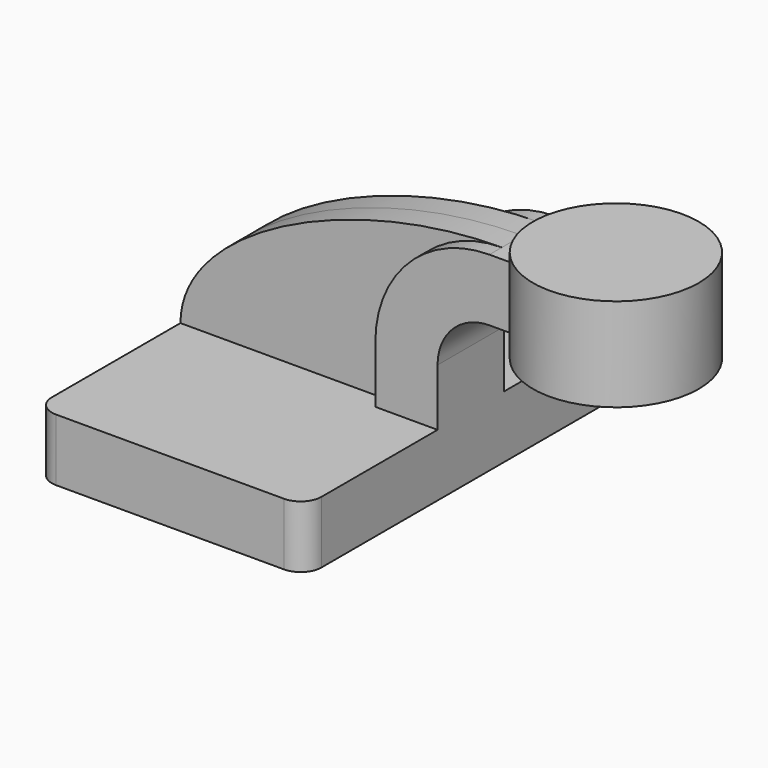
from build123d import *

# Parameters (mm, degrees)
F1_DEPTH = 63.5
F0_W     = 25.4
F0_H     = 19.05
F2_DEPTH = 12.7
F3_DEPTH = 7.9375
F5_R     = 6.35


with BuildPart() as f1:
    # F0 (on Front) → F1 (new body, symmetric)
    with BuildSketch(Plane.XZ):
        Polygon((41.275, -9.525), (41.275, 9.525), (22.225, 9.525), (-41.275, 9.525), (-41.275, -9.525), align=None)
    extrude(amount=F1_DEPTH, both=True)



with BuildPart() as f2:
    # F0 (on Front) → F2 (new body, symmetric)
    with BuildSketch(Plane.XZ):
        with Locations((73.025, 52.4002)):
            Rectangle(F0_W, F0_H)
        with BuildLine():
            Line((22.225, 9.525), (41.275, 9.525))
            Line((41.275, 9.525), (41.275, 27.0002))
            ThreePointArc((41.275, 27.0002), (45.9246798487, 38.2255201513), (57.15, 42.8752))
            Line((57.15, 42.8752), (60.325, 42.8752))
            Line((60.325, 42.8752), (60.325, 61.9252))
            Line((60.325, 61.9252), (57.15, 61.9252))
            ThreePointArc((57.15, 61.9252), (32.4542956671, 51.6959043329), (22.225, 27.0002))
            Line((22.225, 27.0002), (22.225, 9.525))
        make_face()
    extrude(amount=F2_DEPTH, both=True)


with BuildPart() as f1_1:
    add(f1.part)

    add(f2.part)  # F3 merges F2
    # F0 (on Front) → F3 (join, symmetric)
    with BuildSketch(Plane.XZ):
        with BuildLine():
            Line((-41.275, 9.525), (22.225, 9.525))
            Line((22.225, 9.525), (22.225, 27.0002))
            ThreePointArc((22.225, 27.0002), (32.4542956671, 51.6959043329), (57.15, 61.9252))
            add(Edge.make_bspline(
                [(-41.275, 9.525), (-41.1560833454, 37.1647924185), (10.9962709248, 61.9252), (57.15, 61.9252)],
                knots=[0, 0, 0, 0, 111.5045361635, 111.5045361635, 111.5045361635, 111.5045361635], degree=3))
        make_face()
    extrude(amount=F3_DEPTH, both=True)

    # F0 (on Front) → F4 (revolve)
    with BuildSketch(Plane.XZ):
        Polygon((85.725, 61.9252), (85.725, 42.8752), (85.725, 38.1), (111.125, 38.1), (111.125, 66.675), (85.725, 66.675), align=None)
    revolve(axis=Axis((85.725, 0, 52.3875), (0, 0, 1)))

    # F5
    f5_edges = [f1_1.edges().sort_by_distance(p)[0] for p in [
        (-41.275, -63.5, 0),
        (41.275, -63.5, 0),
        (41.275, 63.5, 0),
        (-41.275, 63.5, 0),
    ]]
    fillet(f5_edges, radius=F5_R)


solid = f1_1.part
